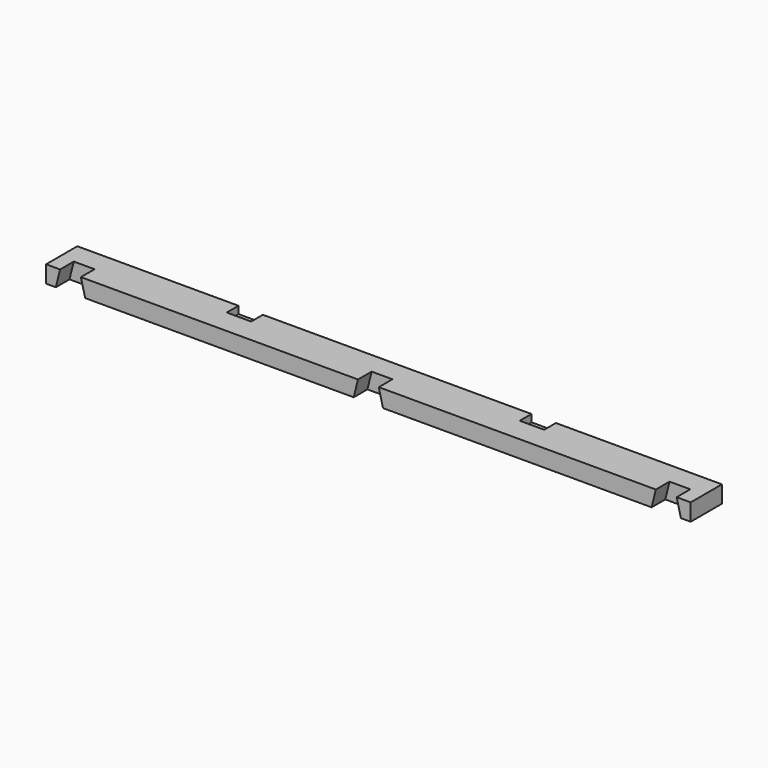
from build123d import *

# Parameters (mm, degrees)
F0_W     = 838.2
F0_H     = 22.225
F1_DEPTH = 50.8
F3_DEPTH = 22.225
F4_W     = 31.75
F4_H     = 19.05
F5_DEPTH = 9.525


with BuildPart() as f1:
    # F0 (on Front) → F1 (new body)
    with BuildSketch(Plane.XZ):
        with Locations((419.1, 11.1125)):
            Rectangle(F0_W, F0_H)
    extrude(amount=F1_DEPTH)

    # F2 (on face) → F3 (cut)
    with BuildSketch(Plane.XZ.offset(50.8)):
        Polygon((405.591315, 22.225), (400.05, 0), (438.15, 0), (432.608685, 22.225), align=None)
        Polygon((792.941315, 22.225), (787.4, 0), (825.5, 0), (819.958685, 22.225), align=None)
        Polygon((12.7, 0), (50.8, 0), (45.258685, 22.225), (18.241315, 22.225), align=None)
    extrude(amount=-F3_DEPTH, mode=Mode.SUBTRACT)

    # F4 (on face) → F5 (cut)
    with BuildSketch(Plane.XY.offset(22.225)):
        with Locations((225.425, -9.525)):
            Rectangle(F4_W, F4_H)
        with Locations((606.425, -9.525)):
            Rectangle(F4_W, F4_H)
    extrude(amount=-F5_DEPTH, mode=Mode.SUBTRACT)


solid = f1.part
